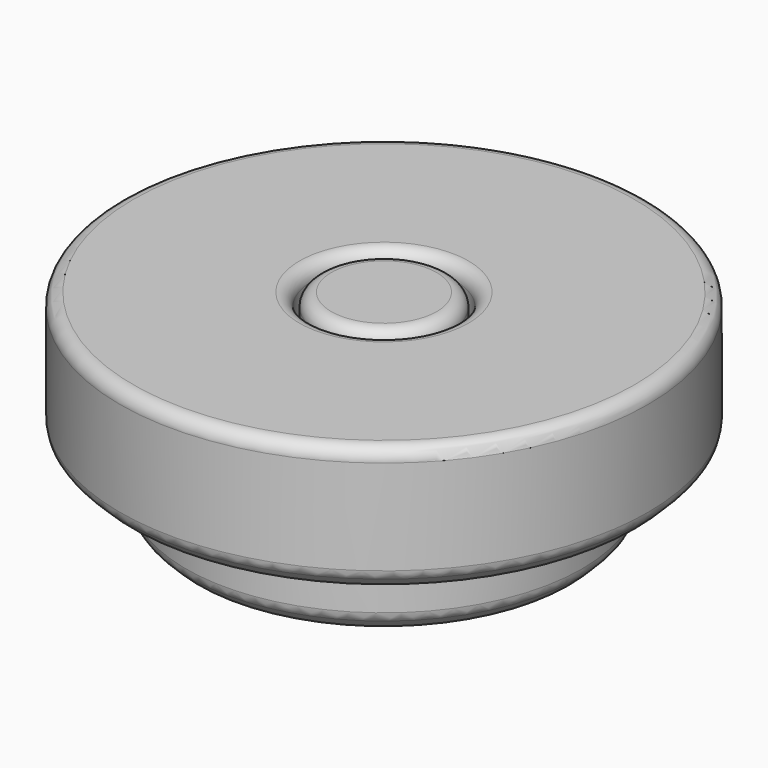
from build123d import *

# Parameters (mm, degrees)
F1_R     = 15
F1_R_2   = 5
F2_DEPTH = 5
F3_DEPTH = 15
F4_R     = 20
F4_R_2   = 5.4
F5_DEPTH = 9.6
F6_SIZE  = 1
F7_R     = 1
F8_SIZE  = 1
F9_R     = 1


with BuildPart() as f2:
    # F1 (on Top) → F2 (new body)
    with BuildSketch(Plane.XY):
        Circle(F1_R)
        Circle(F1_R_2, mode=Mode.SUBTRACT)
        Circle(F1_R_2)
    extrude(amount=F2_DEPTH)

    # F1 (on Top) → F3 (join)
    with BuildSketch(Plane.XY):
        Circle(F1_R_2)
    extrude(amount=F3_DEPTH)

    # F8
    f8_edges = [f2.edges().sort_by_distance(p)[0] for p in [
        (-15, 0, 0),
    ]]
    chamfer(f8_edges, length=F8_SIZE)

    # F9
    f9_edges = [f2.edges().sort_by_distance(p)[0] for p in [
        (15, 0, 3),
        (-15, 0, 1),
        (-15, 0, 5),
        (-5, 0, 15),
    ]]
    fillet(f9_edges, radius=F9_R)


with BuildPart() as f5:
    # F4 (on face) → F5 (new body)
    with BuildSketch(Plane.XY.offset(15)):
        Circle(F4_R)
        Circle(F4_R_2, mode=Mode.SUBTRACT)
    extrude(amount=-F5_DEPTH)

    # F6
    f6_edges = [f5.edges().sort_by_distance(p)[0] for p in [
        (-20, 0, 5.4),
        (-5.4, 0, 5.4),
    ]]
    chamfer(f6_edges, length=F6_SIZE)

    # F7
    f7_edges = [f5.edges().sort_by_distance(p)[0] for p in [
        (20, 0, 10.7),
        (-20, 0, 6.4),
        (-20, 0, 15),
        (5.4, 0, 10.7),
        (-5.4, 0, 6.4),
        (-5.4, 0, 15),
    ]]
    fillet(f7_edges, radius=F7_R)


solid = Compound([f2.part, f5.part])
